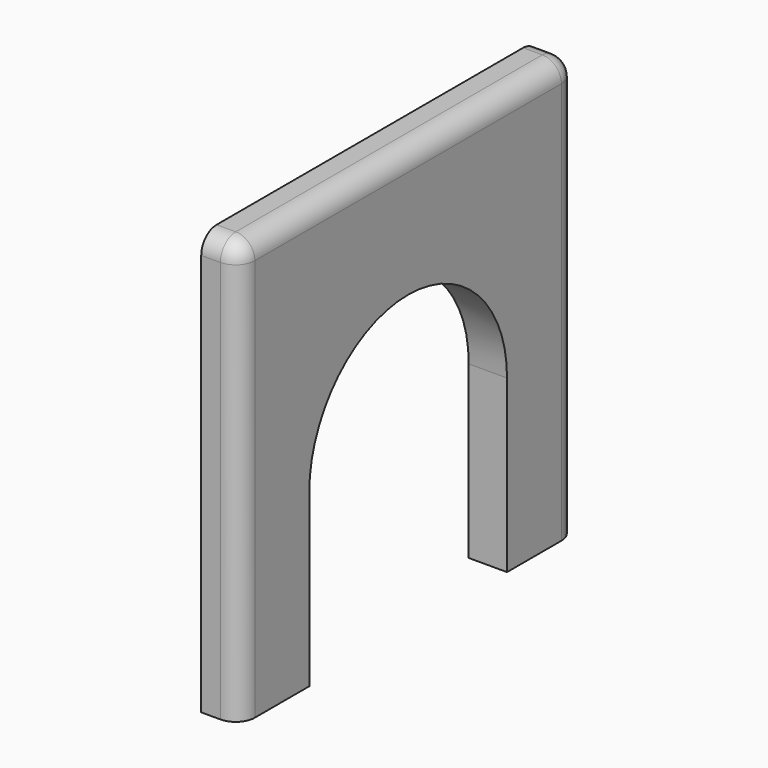
from build123d import *

# Parameters (mm, degrees)
F0_W     = 279.4
F0_H     = 279.4
F1_DEPTH = 25.4
F3_DEPTH = 25.4
F4_R     = 12.7
F5_R     = 12.7


with BuildPart() as f1:
    # F0 (on Right) → F1 (new body)
    with BuildSketch(Plane.YZ):
        with Locations((139.7, 139.7)):
            Rectangle(F0_W, F0_H)
    extrude(amount=F1_DEPTH)

    # F2 (on face) → F3 (cut)
    with BuildSketch(Plane.YZ.offset(25.4)):
        with BuildLine():
            Line((221.641318, -113.265621), (221.641318, 113.265621))
            ThreePointArc((221.641318, 113.265621), (139.7, 195.20694), (57.758682, 113.265621))
            Line((57.758682, 113.265621), (57.758682, -113.265621))
            Line((57.758682, -113.265621), (221.641318, -113.265621))
        make_face()
    extrude(amount=-F3_DEPTH, mode=Mode.SUBTRACT)

    # F4
    f4_edges = [f1.edges().sort_by_distance(p)[0] for p in [
        (12.7, 0, 279.4),
        (12.7, 279.4, 279.4),
    ]]
    fillet(f4_edges, radius=F4_R)

    # F5
    f5_edges = [f1.edges().sort_by_distance(p)[0] for p in [
        (25.4, 139.7, 279.4),
    ]]
    fillet(f5_edges, radius=F5_R)


solid = f1.part
